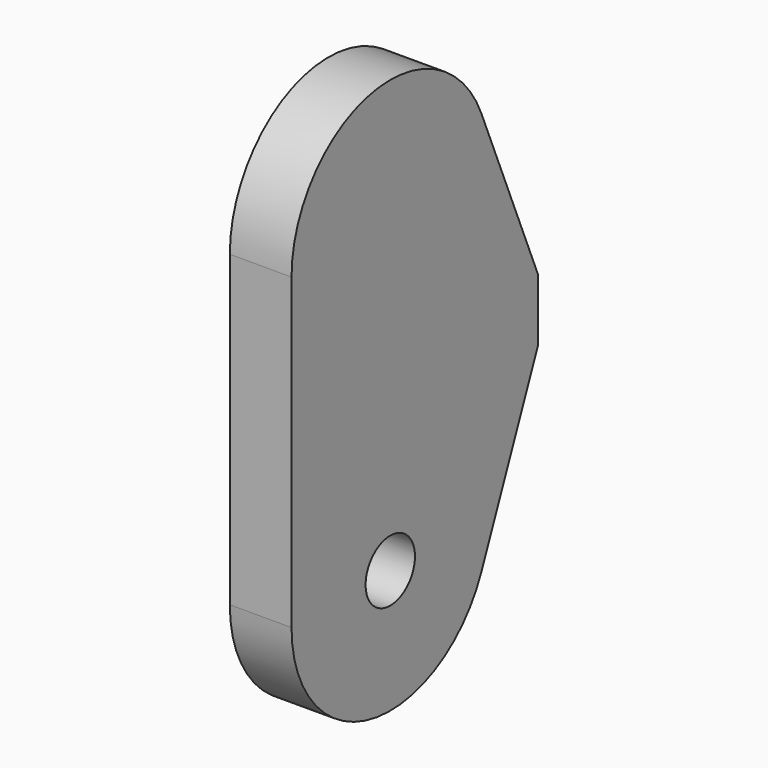
from build123d import *

# Parameters (mm, degrees)
F0_R     = 6.35
F1_DEPTH = 12.7


with BuildPart() as f1:
    # F0 (on Right) → F1 (new body)
    with BuildSketch(Plane.YZ):
        with BuildLine():
            ThreePointArc((-25.4, 0), (-4.965342, -24.909945), (23.458691, -9.739087))
            Line((23.458691, -9.739087), (38.047, 25.4))
            Line((38.047, 25.4), (38.047, 38.1))
            Line((38.047, 38.1), (23.458691, 73.239087))
            ThreePointArc((23.458691, 73.239087), (-4.965342, 88.409945), (-25.4, 63.5))
            Line((-25.4, 63.5), (-25.4, 0))
        make_face()
        Circle(F0_R, mode=Mode.SUBTRACT)
    extrude(amount=F1_DEPTH)


solid = f1.part
